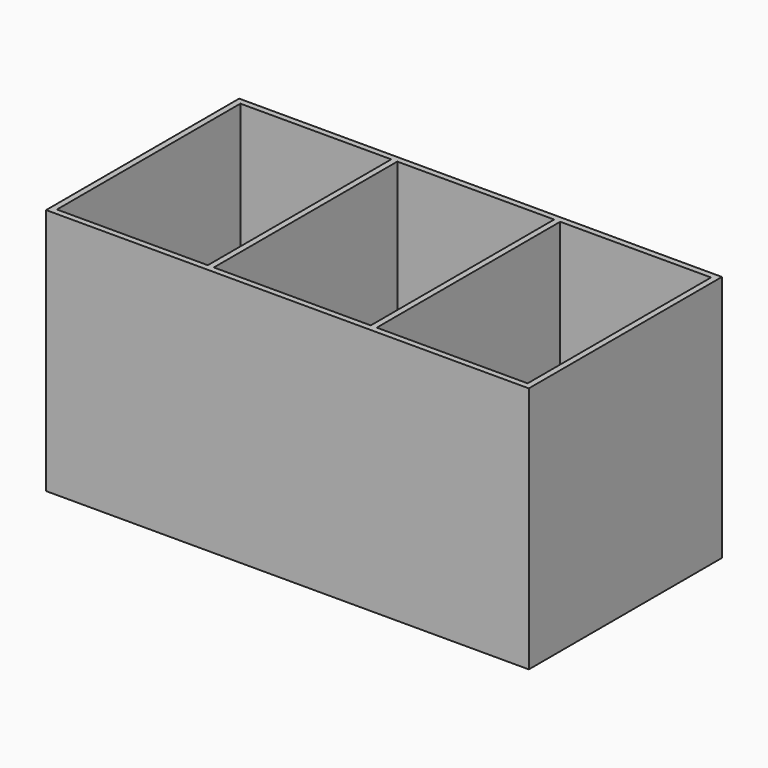
from build123d import *

# Parameters (mm, degrees)
F0_W     = 160
F0_H     = 80
F1_DEPTH = 2
F2_W     = 2
F2_H     = 76
F2_W_2   = 52
F2_H_2   = 2
F3_DEPTH = 80


with BuildPart() as f1:
    # F0 (on Top) → F1 (new body)
    with BuildSketch(Plane.XY):
        with Locations((80, 40)):
            Rectangle(F0_W, F0_H)
    extrude(amount=F1_DEPTH)

    # F2 (on face) → F3 (join)
    with BuildSketch(Plane.XY.offset(2)):
        with Locations((53, 40)):
            Rectangle(F2_W, F2_H)
        with Locations((107, 40)):
            Rectangle(F2_W, F2_H)
        Polygon((0, 80), (0, 0), (54, 0), (54, 2), (52, 2), (2, 2), (2, 78), (52, 78), (54, 78), (54, 80), align=None)
        Polygon((106, 2), (106, 0), (160, 0), (160, 80), (106, 80), (106, 78), (108, 78), (158, 78), (158, 2), (108, 2), align=None)
        with Locations((80, 1)):
            Rectangle(F2_W_2, F2_H_2)
        with Locations((80, 79)):
            Rectangle(F2_W_2, F2_H_2)
    extrude(amount=F3_DEPTH)


solid = f1.part
